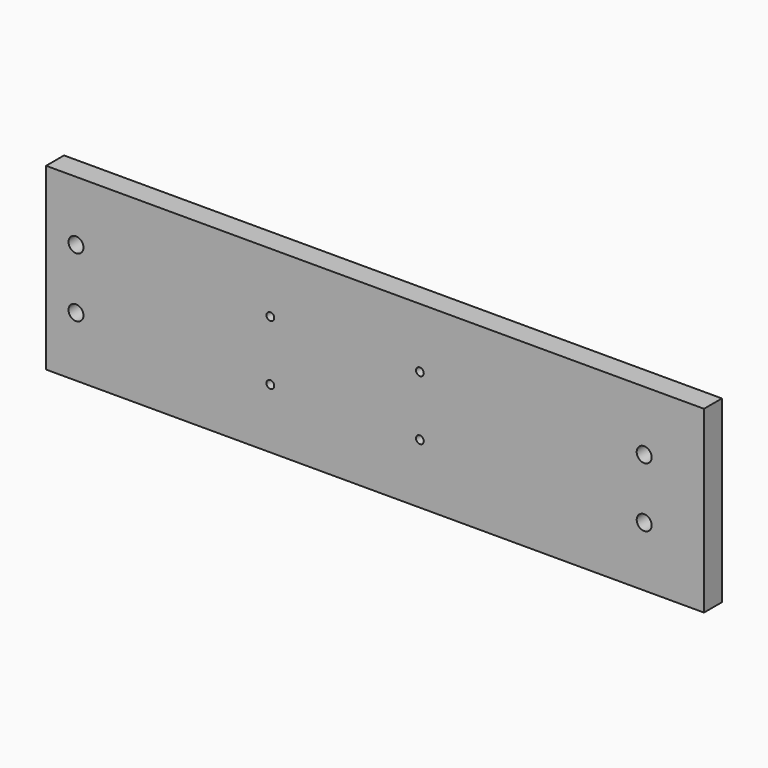
from build123d import *

# Parameters (mm, degrees)
F0_W     = 279.4
F0_H     = 76.2
F0_R     = 3.175
F0_R_2   = 1.651
F1_DEPTH = 9.525


with BuildPart() as f1:
    # F0 (on Front) → F1 (new body)
    with BuildSketch(Plane.XZ):
        with Locations((13.311836, 0)):
            Rectangle(F0_W, F0_H)
        with Locations((-113.688164, -12.7)):
            Circle(F0_R, mode=Mode.SUBTRACT)
        with Locations((-31.138164, -12.7)):
            Circle(F0_R_2, mode=Mode.SUBTRACT)
        with Locations((32.361836, -12.7)):
            Circle(F0_R_2, mode=Mode.SUBTRACT)
        with Locations((127.611836, -12.7)):
            Circle(F0_R, mode=Mode.SUBTRACT)
        with Locations((-113.688164, 12.7)):
            Circle(F0_R, mode=Mode.SUBTRACT)
        with Locations((-31.138164, 12.7)):
            Circle(F0_R_2, mode=Mode.SUBTRACT)
        with Locations((32.361836, 12.7)):
            Circle(F0_R_2, mode=Mode.SUBTRACT)
        with Locations((127.611836, 12.7)):
            Circle(F0_R, mode=Mode.SUBTRACT)
    extrude(amount=F1_DEPTH)


solid = f1.part
